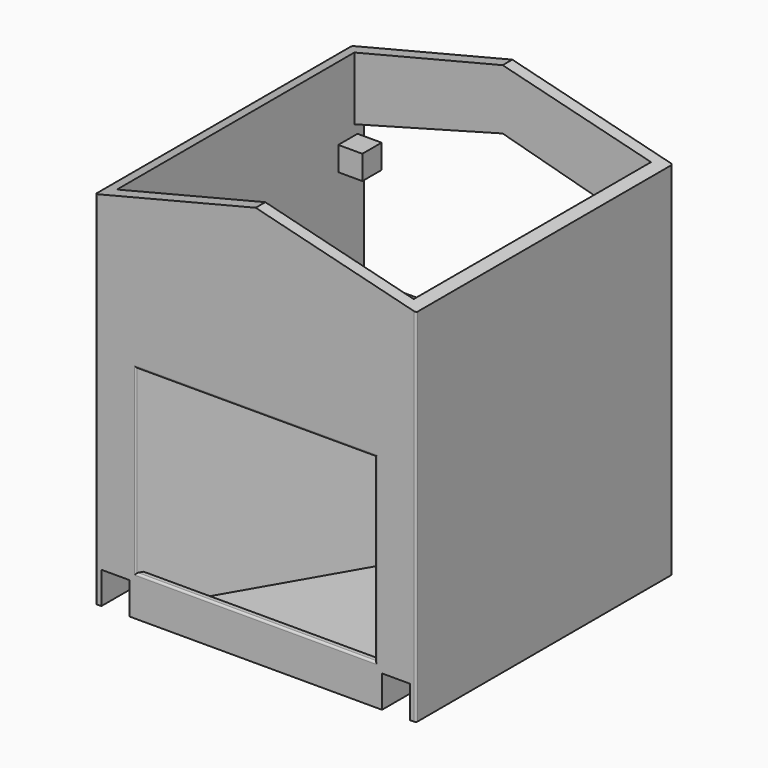
from build123d import *

# Parameters (mm, degrees)
PAD_DEPTH       = 160
SKETCH001_W     = 120
SKETCH001_H     = 90
POCKET_DEPTH    = 100
PAD001_DEPTH    = 90
POCKET001_DEPTH = 16
POCKET002_DEPTH = 60
SKETCH006_W     = 148
SKETCH006_H     = 148
POCKET004_DEPTH = 80
SKETCH007_W     = 14
SKETCH007_H     = 16
SKETCH007_W_2   = 14.0000000001
SKETCH007_H_2   = 15.9999999999
POCKET005_DEPTH = 100
SKETCH008_W     = 14
SKETCH008_H     = 30
SKETCH008_W_2   = 14.0000000001
SKETCH008_H_2   = 29.9999999999
PAD002_DEPTH    = 2
POCKET008_DEPTH = 10
POCKET009_DEPTH = 50
SKETCH009_R     = 2.5
POCKET010_DEPTH = 10
SKETCH005_W     = 8
SKETCH005_H     = 16
POCKET011_DEPTH = 5
SKETCH012_R     = 6
POCKET012_DEPTH = 10
SKETCH013_R     = 2.75
POCKET013_DEPTH = 5
SKETCH015_R     = 6
POCKET014_DEPTH = 10
SKETCH016_R     = 2.75
POCKET015_DEPTH = 5
SKETCH017_W     = 12
SKETCH017_H     = 12
PAD003_DEPTH    = 12
SKETCH018_W     = 12
SKETCH018_H     = 12
PAD004_DEPTH    = 12
SKETCH019_R     = 2.75
POCKET016_DEPTH = 9
FILLET_R        = 1


with BuildPart() as part:
    # Sketch → Pad (new body)
    with BuildSketch(Plane.XZ):
        Polygon((0, 0), (0, 180), (80, 200), (160, 180), (160, 0), align=None)
    extrude(amount=-PAD_DEPTH)

    # Sketch001 (on Face6 of Pad) → Pocket (cut)
    with BuildSketch(Plane.XZ):
        with Locations((80, 65)):
            Rectangle(SKETCH001_W, SKETCH001_H)
    extrude(amount=-POCKET_DEPTH, mode=Mode.SUBTRACT)

    # Sketch002 (on Face10 of Pocket) → Pad001 (join)
    with BuildSketch(Plane(origin=(0, 0, 20), x_dir=(-1, 0, 0), z_dir=(0, 0, 1))):
        Polygon((-20, 0), (-76, -96.9948452239), (-84, -96.9948452239), (-140, 0), (-140, -100), (-20, -100), align=None)
    extrude(amount=PAD001_DEPTH)

    # Sketch003 (on Face10 of Pad001) → Pocket001 (cut)
    with BuildSketch(Plane(origin=(0, 0, 20), x_dir=(-1, 0, 0), z_dir=(0, 0, 1))):
        Polygon((-21.7320508076, -3), (-138.2679491924, -3), (-84, -96.9948452239), (-76, -96.9948452239), align=None)
    extrude(amount=-POCKET001_DEPTH, mode=Mode.SUBTRACT)

    # Sketch004 (on Face5 of Pocket001) → Pocket002 (cut)
    with BuildSketch(Plane(origin=(0, 160, 0), x_dir=(1, 0, 0), z_dir=(0, 1, 0))):
        Polygon((6, -150), (6, -6), (154, -6), (154, -150), (80, -170), align=None)
    extrude(amount=-POCKET002_DEPTH, mode=Mode.SUBTRACT)

    # Sketch006 → Pocket004 (cut)
    with BuildSketch(Plane.XY.offset(200)):
        with Locations((80, 80)):
            Rectangle(SKETCH006_W, SKETCH006_H)
    extrude(amount=-POCKET004_DEPTH, mode=Mode.SUBTRACT)

    # Sketch007 (on Face4 of Pocket004) → Pocket005 (cut)
    with BuildSketch(Plane.XZ):
        with Locations((10, 8)):
            Rectangle(SKETCH007_W, SKETCH007_H)
        with Locations((150, 8)):
            Rectangle(SKETCH007_W_2, SKETCH007_H_2)
    extrude(amount=-POCKET005_DEPTH, mode=Mode.SUBTRACT)

    # Sketch008 (on Face17 of Pocket005) → Pad002 (join)
    with BuildSketch(Plane(origin=(0, 0, 16), x_dir=(1, 0, 0), z_dir=(0, 0, -1))):
        with Locations((10, -39.5)):
            Rectangle(SKETCH008_W, SKETCH008_H)
        with Locations((150, -39.5)):
            Rectangle(SKETCH008_W_2, SKETCH008_H_2)
    extrude(amount=PAD002_DEPTH)

    # Sketch010 → Pocket008 (cut)
    with BuildSketch(Plane(origin=(0, 0, 110), x_dir=(1, 0, 0), z_dir=(0, 0, -1))):
        Polygon((40, -34.6410161514), (60, -69.2820323028), (72.9903810568, -61.7820323028), (52.9903810568, -27.1410161514), align=None)
        Polygon((107.0096189432, -27.1410161514), (87.0096189432, -61.7820323028), (100, -69.2820323028), (120, -34.6410161514), align=None)
    extrude(amount=-POCKET008_DEPTH, mode=Mode.SUBTRACT)

    # Sketch011 (on Face39 of Pocket008) → Pocket009 (cut)
    with BuildSketch(Plane(origin=(0, 0, 120), x_dir=(-1, 0, 0), z_dir=(0, 0, 1))):
        Polygon((-130.4145188433, -30), (-90, -100), (-154, -100), (-154, -30), align=None)
        Polygon((-29.5854811567, -30), (-70, -100), (-6, -100), (-6, -30), align=None)
    extrude(amount=-POCKET009_DEPTH, mode=Mode.SUBTRACT)

    # Sketch009 (on Face29 of Pocket009) → Pocket010 (cut)
    with BuildSketch(Plane(origin=(0, 0, 14), x_dir=(1, 0, 0), z_dir=(0, 0, -1))):
        with Locations((10, -34.5)):
            Circle(SKETCH009_R)
        with Locations((10, -44.5)):
            Circle(SKETCH009_R)
        with Locations((150, -34.5)):
            Circle(SKETCH009_R)
        with Locations((150, -44.5)):
            Circle(SKETCH009_R)
    extrude(amount=-POCKET010_DEPTH, mode=Mode.SUBTRACT)

    # Sketch005 (on Face44 of Pocket009) → Pocket011 (cut)
    with BuildSketch(Plane.XZ.offset(-96.9948452239)):
        with Locations((80, 61)):
            Rectangle(SKETCH005_W, SKETCH005_H)
    extrude(amount=-POCKET011_DEPTH, mode=Mode.SUBTRACT)

    # Sketch012 (on Face61 of Pocket011) → Pocket012 (cut)
    with BuildSketch(Plane(origin=(9.1987298108, -5.3108891325, 0), x_dir=(0, 0, -1), z_dir=(-0.8660254038, 0.5, 0))):
        with Locations((-115, -70)):
            Circle(SKETCH012_R)
    extrude(amount=-POCKET012_DEPTH, mode=Mode.SUBTRACT)

    # Sketch013 (on Face64 of Pocket012) → Pocket013 (cut)
    with BuildSketch(Plane(origin=(9.1987298108, -5.3108891325, 0), x_dir=(0, 0, -1), z_dir=(-0.8660254038, 0.5, 0))):
        with Locations((-107, -52.5)):
            Circle(SKETCH013_R)
        with Locations((-107, -87.5)):
            Circle(SKETCH013_R)
    extrude(amount=-POCKET013_DEPTH, mode=Mode.SUBTRACT)

    # Sketch015 (on Face65 of Pocket013) → Pocket014 (cut)
    with BuildSketch(Plane(origin=(110.8012701892, 63.9711431703, 0), x_dir=(0, 0, 1), z_dir=(0.8660254038, 0.5, 0))):
        with Locations((115, 10)):
            Circle(SKETCH015_R)
    extrude(amount=-POCKET014_DEPTH, mode=Mode.SUBTRACT)

    # Sketch016 (on Face67 of Pocket014) → Pocket015 (cut)
    with BuildSketch(Plane(origin=(110.8012701892, 63.9711431703, 0), x_dir=(0, 0, 1), z_dir=(0.8660254038, 0.5, 0))):
        with Locations((107, 27.5)):
            Circle(SKETCH016_R)
        with Locations((107, -7.5)):
            Circle(SKETCH016_R)
    extrude(amount=-POCKET015_DEPTH, mode=Mode.SUBTRACT)

    # Sketch017 (on Face25 of Pocket015) → Pad003 (join)
    with BuildSketch(Plane(origin=(154, 0, 0), x_dir=(0, 0, -1), z_dir=(-1, 0, 0))):
        with Locations((-12, -150)):
            Rectangle(SKETCH017_W, SKETCH017_H)
        with Locations((-139, -150)):
            Rectangle(SKETCH017_W, SKETCH017_H)
    extrude(amount=PAD003_DEPTH)

    # Sketch018 (on Face27 of Pad003) → Pad004 (join)
    with BuildSketch(Plane(origin=(6, 0, 0), x_dir=(0, 0, 1), z_dir=(1, 0, 0))):
        with Locations((12, -150)):
            Rectangle(SKETCH018_W, SKETCH018_H)
        with Locations((139, -150)):
            Rectangle(SKETCH018_W, SKETCH018_H)
    extrude(amount=PAD004_DEPTH)

    # Sketch019 (on Face68 of Pad004) → Pocket016 (cut)
    with BuildSketch(Plane(origin=(0, 156, 0), x_dir=(1, 0, 0), z_dir=(0, 1, 0))):
        with Locations((148, -12)):
            Circle(SKETCH019_R)
        with Locations((148, -139)):
            Circle(SKETCH019_R)
        with Locations((12, -139)):
            Circle(SKETCH019_R)
        with Locations((12, -12)):
            Circle(SKETCH019_R)
    extrude(amount=-POCKET016_DEPTH, mode=Mode.SUBTRACT)

    # Fillet
    fillet_edges = [part.edges().sort_by_distance(p)[0] for p in [
        (0, 160, 90),
        (0, 0, 90),
        (160, 0, 90),
        (80, 0, 20),
        (20, 0, 65),
        (80, 0, 110),
        (140, 0, 65),
        (160, 160, 90),
    ]]
    fillet(fillet_edges, radius=FILLET_R)


solid = part.part
